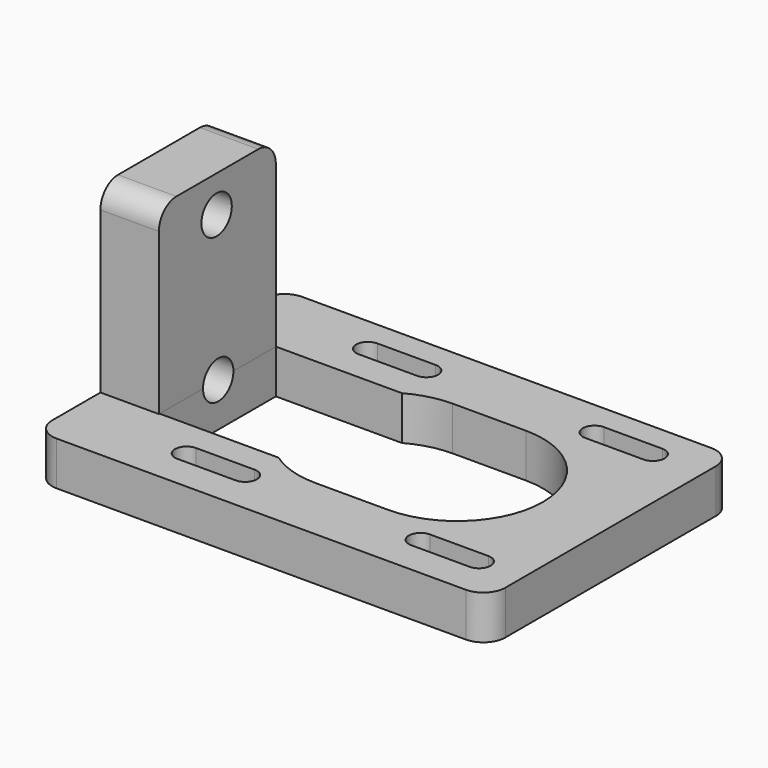
from build123d import *

# Parameters (mm, degrees)
PAD_DEPTH         = 6
SKETCH001_W       = 8
SKETCH001_H       = 20
PAD001_DEPTH      = 25
PAD001_DEPTH_BACK = 4
SKETCH002_W       = 17.981461
SKETCH002_H       = 19.878344
POCKET_DEPTH      = 6
SKETCH003_R       = 2.6
POCKET001_DEPTH   = 9
FILLET_R          = 3


with BuildPart() as part:
    # Sketch → Pad (new body)
    with BuildSketch(Plane.XY):
        Polygon((62, 42), (62, 0), (10, 0), (0, 0), (0, 42), align=None)
        with BuildLine():
            ThreePointArc((16, 38.6), (14.4, 37), (16, 35.4))
            Line((16, 35.4), (24, 35.4))
            ThreePointArc((24, 35.4), (25.6, 37), (24, 38.6))
            Line((16, 38.6), (24, 38.6))
        make_face(mode=Mode.SUBTRACT)
        with BuildLine():
            Line((47, 38.6), (55, 38.6))
            ThreePointArc((55, 35.4), (56.6, 37), (55, 38.6))
            Line((47, 35.4), (55, 35.4))
            ThreePointArc((47, 38.6), (45.4, 37), (47, 35.4))
        make_face(mode=Mode.SUBTRACT)
        with BuildLine():
            ThreePointArc((16, 7.6), (14.4, 6), (16, 4.4))
            Line((16, 4.4), (24, 4.4))
            ThreePointArc((24, 4.4), (25.6, 6), (24, 7.6))
            Line((16, 7.6), (24, 7.6))
        make_face(mode=Mode.SUBTRACT)
        with BuildLine():
            ThreePointArc((48, 7.6), (46.4, 6), (48, 4.4))
            Line((48, 4.4), (56, 4.4))
            ThreePointArc((56, 4.4), (57.6, 6), (56, 7.6))
            Line((48, 7.6), (56, 7.6))
        make_face(mode=Mode.SUBTRACT)
        with BuildLine():
            ThreePointArc((31, 32.75), (19.25, 21), (31, 9.25))
            Line((31, 9.25), (41, 9.25))
            ThreePointArc((41, 9.25), (52.75, 21), (41, 32.75))
            Line((31, 32.75), (41, 32.75))
        make_face(mode=Mode.SUBTRACT)
    extrude(amount=PAD_DEPTH)

    # Sketch001 (on Face27 of Pad) → Pad001 (join, two sides)
    with BuildSketch(Plane.XY.offset(6)) as pad001_sk:
        with Locations((4, 21.25)):
            Rectangle(SKETCH001_W, SKETCH001_H)
    extrude(amount=PAD001_DEPTH)
    extrude(pad001_sk.sketch, amount=-PAD001_DEPTH_BACK)

    # Sketch002 (on Face5 of Pad001) → Pocket (cut)
    with BuildSketch(Plane.XY.offset(6)):
        with Locations((16.99073, 21.310828)):
            Rectangle(SKETCH002_W, SKETCH002_H)
    extrude(amount=-POCKET_DEPTH, mode=Mode.SUBTRACT)

    # Sketch003 (on Face34 of Pocket) → Pocket001 (cut)
    with BuildSketch(Plane.YZ.offset(8)):
        with Locations((21.119102, 26)):
            Circle(SKETCH003_R)
        with Locations((21.393444, 6)):
            Circle(SKETCH003_R)
    extrude(amount=-POCKET001_DEPTH, mode=Mode.SUBTRACT)

    # Fillet
    fillet_edges = [part.edges().sort_by_distance(p)[0] for p in [
        (0, 0, 3),
        (62, 0, 3),
        (62, 42, 3),
        (0, 42, 3),
        (4, 31.25, 31),
        (4, 11.25, 31),
    ]]
    fillet(fillet_edges, radius=FILLET_R)


solid = part.part
